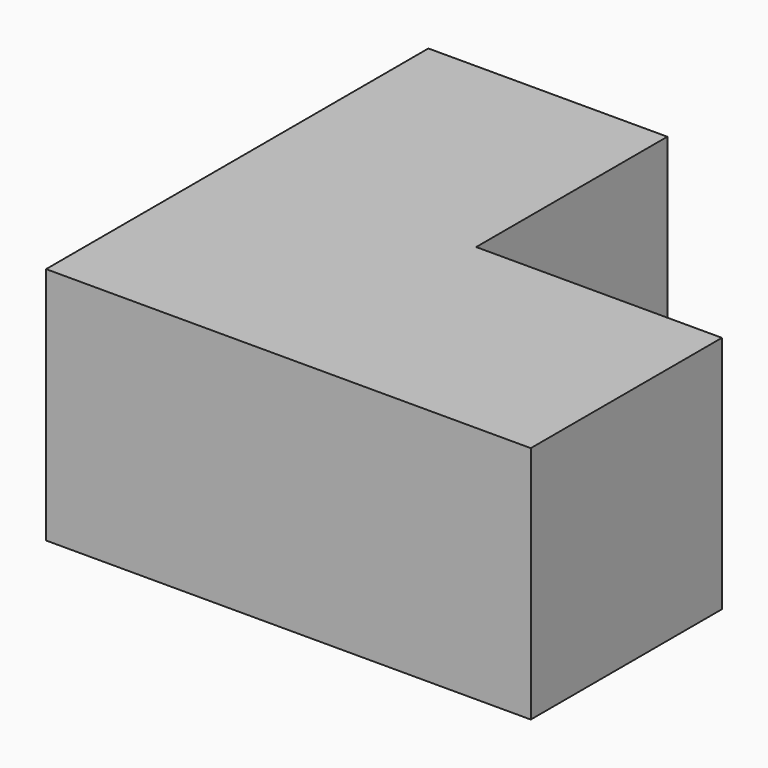
from build123d import *

# Parameters (mm, degrees)
F1_DEPTH = 10
F2_DEPTH = 10


with BuildPart() as f1:
    # F0 (on Top) → F1 (new body)
    with BuildSketch(Plane.XY):
        Polygon((-32.979041, 38.226672), (-32.979041, 18.226672), (-12.693504, 18.226672), (-12.693504, 28.226672), (-22.979041, 28.226672), (-22.979041, 38.226672), align=None)
    extrude(amount=F1_DEPTH)


with BuildPart() as f2:
    # F0 (on Top) → F2 (new body)
    with BuildSketch(Plane.XY):
        Polygon((-32.979041, 38.226672), (-32.979041, 18.226672), (-12.693504, 18.226672), (-12.693504, 28.226672), (-22.979041, 28.226672), (-22.979041, 38.226672), align=None)
        Polygon((-32.979041, 38.226672), (-32.979041, 18.226672), (-12.693504, 18.226672), (-12.693504, 28.226672), (-22.979041, 28.226672), (-22.979041, 38.226672), align=None)
    extrude(amount=F2_DEPTH)


solid = Compound([f1.part, f2.part])
